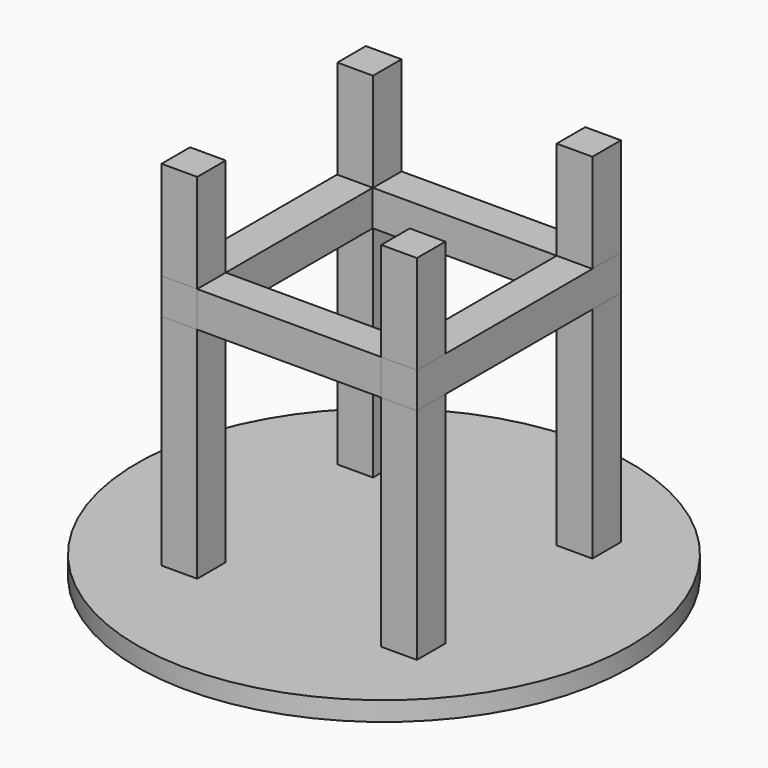
from build123d import *

# Parameters (mm, degrees)
CYLINDER_R     = 900
CYLINDER_DEPTH = 70
BOX_W          = 130
BOX_H          = 130
BOX_DEPTH      = 1300
BOX001_W       = 130
BOX001_H       = 130
BOX001_DEPTH   = 1300
BOX002_W       = 130
BOX002_H       = 130
BOX002_DEPTH   = 1300
BOX003_W       = 130
BOX003_H       = 130
BOX003_DEPTH   = 1300
BOX004_W       = 130
BOX004_H       = 130
BOX004_DEPTH   = 930
BOX005_W       = 130
BOX005_H       = 130
BOX005_DEPTH   = 930
BOX006_W       = 130
BOX006_H       = 130
BOX006_DEPTH   = 930
BOX007_W       = 130
BOX007_H       = 130
BOX007_DEPTH   = 930


with BuildPart() as obj1:
    # Cylinder → Cylinder (new body)
    with BuildSketch(Plane(origin=(-50, -50, 0), x_dir=(1, 0, 0), z_dir=(0, 0, 1))):
        Circle(CYLINDER_R)
    extrude(amount=CYLINDER_DEPTH)


with BuildPart() as obj2:
    # Box → Box (new body)
    with BuildSketch(Plane(origin=(-501, -500, 60), x_dir=(1, 0, 0), z_dir=(0, 0, 1))):
        with Locations((65, 65)):
            Rectangle(BOX_W, BOX_H)
    extrude(amount=BOX_DEPTH)


with BuildPart() as obj3:
    # Box001 → Box001 (new body)
    with BuildSketch(Plane(origin=(300, -500, 60), x_dir=(1, 0, 0), z_dir=(0, 0, 1))):
        with Locations((65, 65)):
            Rectangle(BOX001_W, BOX001_H)
    extrude(amount=BOX001_DEPTH)


with BuildPart() as obj4:
    # Box002 → Box002 (new body)
    with BuildSketch(Plane(origin=(300, 300, 60), x_dir=(1, 0, 0), z_dir=(0, 0, 1))):
        with Locations((65, 65)):
            Rectangle(BOX002_W, BOX002_H)
    extrude(amount=BOX002_DEPTH)


with BuildPart() as obj5:
    # Box003 → Box003 (new body)
    with BuildSketch(Plane(origin=(-500, 300, 60), x_dir=(1, 0, 0), z_dir=(0, 0, 1))):
        with Locations((65, 65)):
            Rectangle(BOX003_W, BOX003_H)
    extrude(amount=BOX003_DEPTH)


with BuildPart() as obj6:
    # Box004 → Box004 (new body)
    with BuildSketch(Plane(origin=(-500, 300, 1000), x_dir=(0, 0, -1), z_dir=(1, 0, 0))):
        with Locations((65, 65)):
            Rectangle(BOX004_W, BOX004_H)
    extrude(amount=BOX004_DEPTH)


with BuildPart() as obj7:
    # Box005 → Box005 (new body)
    with BuildSketch(Plane(origin=(-500, -500, 1000), x_dir=(0, 0, -1), z_dir=(1, 0, 0))):
        with Locations((65, 65)):
            Rectangle(BOX005_W, BOX005_H)
    extrude(amount=BOX005_DEPTH)


with BuildPart() as obj8:
    # Box006 → Box006 (new body)
    with BuildSketch(Plane(origin=(-371, -500, 870), x_dir=(-1, 0, 0), z_dir=(0, 1, 0))):
        with Locations((65, 65)):
            Rectangle(BOX006_W, BOX006_H)
    extrude(amount=BOX006_DEPTH)


with BuildPart() as obj9:
    # Box007 → Box007 (new body)
    with BuildSketch(Plane(origin=(430, -500, 870), x_dir=(-1, 0, 0), z_dir=(0, 1, 0))):
        with Locations((65, 65)):
            Rectangle(BOX007_W, BOX007_H)
    extrude(amount=BOX007_DEPTH)


solid = Compound([obj1.part, obj2.part, obj3.part, obj4.part, obj5.part, obj6.part, obj7.part, obj8.part, obj9.part])
